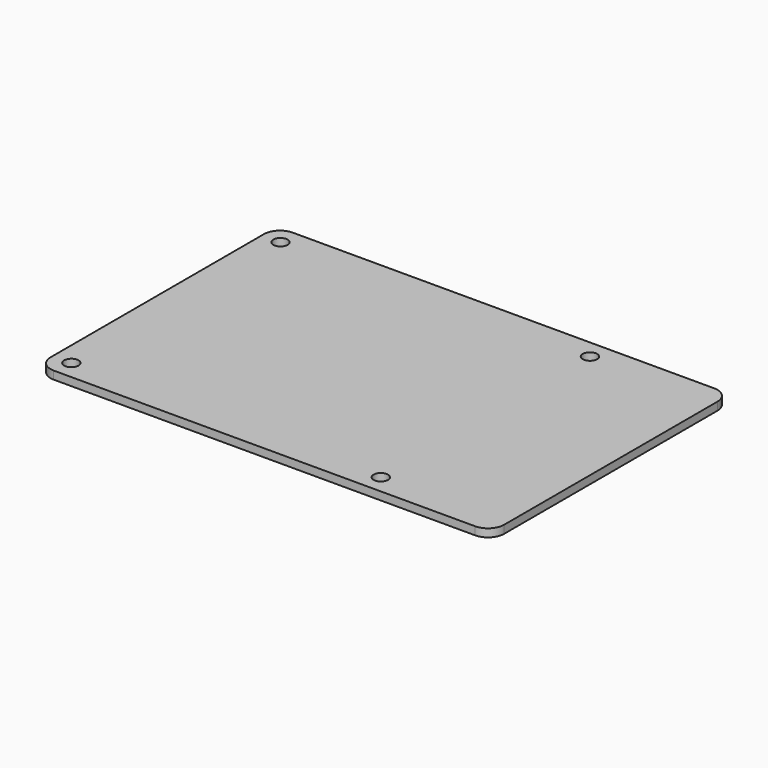
from build123d import *

# Parameters (mm, degrees)
CYLINDER_R     = 1.35
CYLINDER_DEPTH = 1.5
ARRAY_X_COUNT  = 2
ARRAY_X_PITCH  = 58
ARRAY_Y_COUNT  = 2
ARRAY_Y_PITCH  = 49
BOX_W          = 85
BOX_H          = 56
BOX_DEPTH      = 1.5
FILLET_R       = 3


with BuildPart() as mounting_holes:
    # Cylinder → Cylinder (new body)
    with BuildSketch(Plane(origin=(3.5, 3.5, 0), x_dir=(1, 0, 0), z_dir=(0, 0, 1))):
        Circle(CYLINDER_R)
    extrude(amount=CYLINDER_DEPTH)

    # Array X: Mounting Holes ×2


with BuildPart() as mounting_holes_1:
    add(mounting_holes.part)
    with Locations(*[(i * ARRAY_X_PITCH, 0, 0) for i in range(1, ARRAY_X_COUNT)]):
        add(mounting_holes.part)

    # Array Y: Mounting Holes ×2


with BuildPart() as mounting_holes_2:
    add(mounting_holes_1.part)
    with Locations(*[(0, i * ARRAY_Y_PITCH, 0) for i in range(1, ARRAY_Y_COUNT)]):
        add(mounting_holes_1.part)


with BuildPart() as pcb:
    # Box → Box (new body)
    with BuildSketch(Plane.XY):
        with Locations((42.5, 28)):
            Rectangle(BOX_W, BOX_H)
    extrude(amount=BOX_DEPTH)

    # Fillet
    fillet_edges = [pcb.edges().sort_by_distance(p)[0] for p in [
        (0, 0, 0.75),
        (0, 56, 0.75),
        (85, 0, 0.75),
        (85, 56, 0.75),
    ]]
    fillet(fillet_edges, radius=FILLET_R)

    # Cut: cut Mounting Holes
    add(mounting_holes_2.part, mode=Mode.SUBTRACT)


solid = pcb.part
